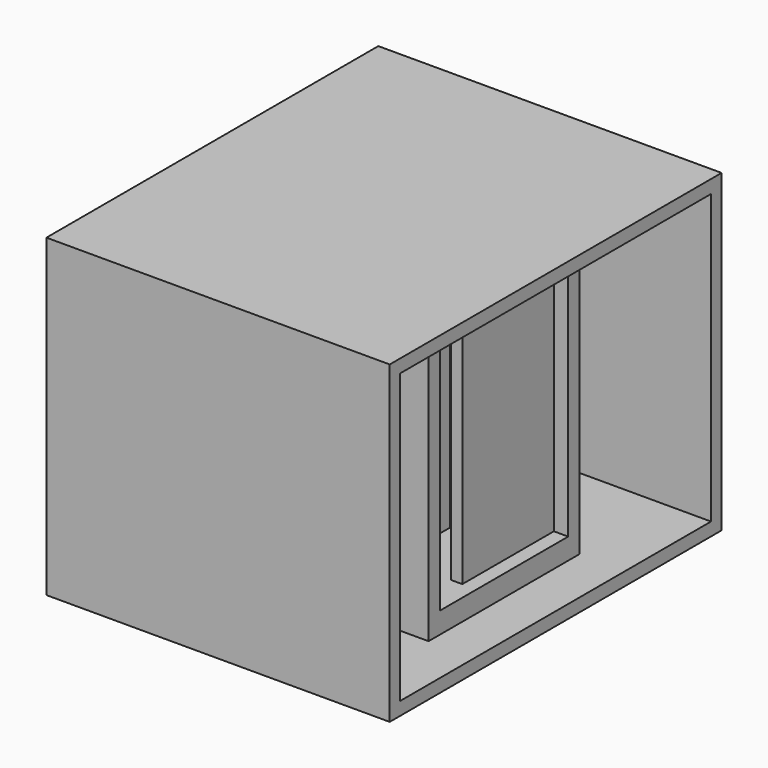
from build123d import *

# Parameters (mm, degrees)
SKETCH037_W     = 72.5
SKETCH037_H     = 55
PAD018_DEPTH    = 60
SKETCH038_W     = 67.9
SKETCH038_H     = 50.4
POCKET013_DEPTH = 60.001
SKETCH039_W     = 67.9
SKETCH039_H     = 4
PAD019_DEPTH    = 50.4
SKETCH040_R     = 2.2
HOLE006_DEPTH   = 25
SKETCH041_W     = 28
SKETCH041_H     = 43
POCKET014_DEPTH = 4
SKETCH042_W     = 33
SKETCH042_H     = 50.4
SKETCH042_W_2   = 28
SKETCH042_H_2   = 43
PAD020_DEPTH    = 40
SKETCH043_W     = 20
SKETCH043_H     = 2
PAD021_DEPTH    = 43


with BuildPart() as part:
    # Sketch037 → Pad018 (new body)
    with BuildSketch(Plane.YZ.offset(120)):
        with Locations((1.26, 27.5)):
            Rectangle(SKETCH037_W, SKETCH037_H)
    extrude(amount=PAD018_DEPTH)

    # Sketch038 (on Face5 of Pad018) → Pocket013 (cut, through all)
    with BuildSketch(Plane(origin=(120, 0, 0), x_dir=(0, 1, 0), z_dir=(-1, 0, 0))):
        with Locations((1.25, -27.5)):
            Rectangle(SKETCH038_W, SKETCH038_H)
    extrude(amount=-POCKET013_DEPTH, mode=Mode.SUBTRACT)

    # Sketch039 (on Face8 of Pocket013) → Pad019 (join)
    with BuildSketch(Plane(origin=(0, 0, 2.3), x_dir=(0, -1, 0), z_dir=(0, 0, 1))):
        with Locations((-1.25, 130)):
            Rectangle(SKETCH039_W, SKETCH039_H)
    extrude(amount=PAD019_DEPTH)

    # Sketch040 (on Face16 of Pad019) → Hole006 (cut)
    with BuildSketch(Plane.YZ.offset(132)):
        with Locations((-25.99, 42.5)):
            Circle(SKETCH040_R)
        with Locations((-23, 9)):
            Circle(SKETCH040_R)
        with Locations((23, 9)):
            Circle(SKETCH040_R)
    extrude(amount=-HOLE006_DEPTH, mode=Mode.SUBTRACT)

    # Sketch041 (on Face16 of Hole006) → Pocket014 (cut)
    with BuildSketch(Plane.YZ.offset(132)):
        with Locations((0, 27.5)):
            Rectangle(SKETCH041_W, SKETCH041_H)
    extrude(amount=-POCKET014_DEPTH, mode=Mode.SUBTRACT)

    # Sketch042 (on Face16 of Pocket014) → Pad020 (join)
    with BuildSketch(Plane.YZ.offset(132)):
        with Locations((0, 27.5)):
            Rectangle(SKETCH042_W, SKETCH042_H)
        with Locations((0, 27.5)):
            Rectangle(SKETCH042_W_2, SKETCH042_H_2, mode=Mode.SUBTRACT)
    extrude(amount=PAD020_DEPTH)

    # Sketch043 (on Face29 of Pad020) → Pad021 (join)
    with BuildSketch(Plane(origin=(0, 0, 6), x_dir=(0, -1, 0), z_dir=(0, 0, 1))):
        with Locations((-4, 168.5)):
            Rectangle(SKETCH043_W, SKETCH043_H)
        with Locations((4, 156.75)):
            Rectangle(SKETCH043_W, SKETCH043_H)
        with Locations((-4, 145)):
            Rectangle(SKETCH043_W, SKETCH043_H)
    extrude(amount=PAD021_DEPTH)


solid = part.part
